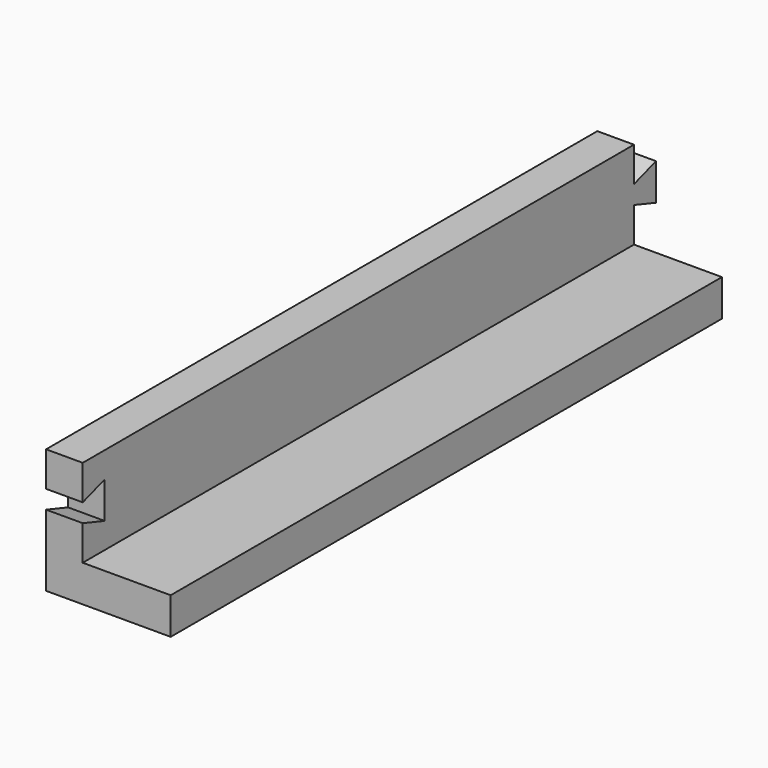
from build123d import *

# Parameters (mm, degrees)
F1_DEPTH = 5
F2_W     = 5
F2_H     = 94
F3_DEPTH = 12
F5_DEPTH = 5
F8_DEPTH = 5


with BuildPart() as f1:
    # F0 (on Top) → F1 (new body)
    with BuildSketch(Plane.XY):
        Polygon((-8.5, -47), (8.5, -47), (8.5, 47), (3.75, 47), (1.25, 47), (-8.5, 47), align=None)
    extrude(amount=F1_DEPTH)

    # F2 (on face) → F3 (join)
    with BuildSketch(Plane.XY.offset(5)):
        with Locations((-6, 0)):
            Rectangle(F2_W, F2_H)
    extrude(amount=F3_DEPTH)


with BuildPart() as f5:
    # F4 (on face) → F5 (new body)
    with BuildSketch(Plane.YZ.offset(-3.5)):
        Polygon((50.75, 13.5), (47, 12.25), (47, 9.75), (50.75, 8.5), align=None)
    extrude(amount=-F5_DEPTH)


with BuildPart() as f1_1:
    add(f1.part)

    # F6: union F5
    add(f5.part)

    # F7 (on face) → F8 (cut)
    with BuildSketch(Plane.YZ.offset(-3.5)):
        Polygon((-47, 12.25), (-47, 9.75), (-43.25, 8.5), (-43.25, 13.5), align=None)
    extrude(amount=-F8_DEPTH, mode=Mode.SUBTRACT)


solid = f1_1.part
